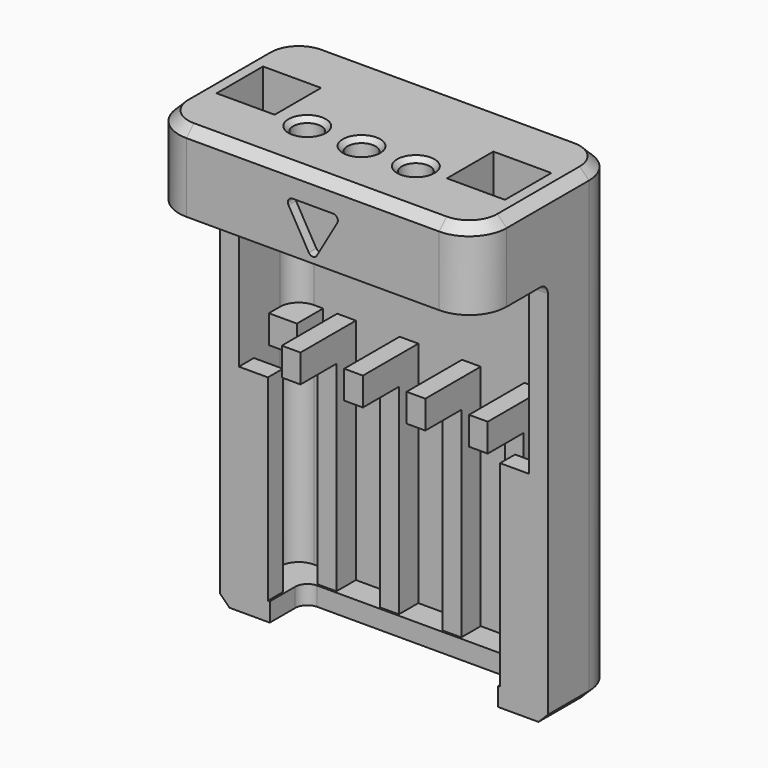
from build123d import *

# Parameters (mm, degrees)
PAD005_DEPTH           = 25
SKETCH014_W            = 3.1
SKETCH014_H            = 3.1
POCKET008_DEPTH        = 3.2
POCKET010_DEPTH        = 20.801
POCKET011_DEPTH        = 0.5
CHAMFER002_SIZE        = 0.5
SKETCH019_R            = 0.75
SKETCH019_R_2          = 1
POCKET012_DEPTH        = 25.001
CHAMFER003_SIZE        = 0.25
PAD009_DEPTH           = 1
CHAMFER_SIZE           = 0.5
PAD021_DEPTH           = 0.5
LINEARPATTERN001_COUNT = 4
LINEARPATTERN001_PITCH = 3.3333333333
SKETCH047_W            = 1.55
SKETCH047_H            = 10.5
PAD022_DEPTH           = 1
SKETCH048_W            = 1.5
SKETCH048_H            = 1.5
PAD023_DEPTH           = 4
SKETCH054_W            = 7.578003
SKETCH054_H            = 26.545825
POCKET038_DEPTH        = 8.751
POCKET038_DEPTH_BACK   = 8.751
FILLET005_R            = 0.5
SKETCH055_W            = 1.5
SKETCH055_H            = 1.5
POCKET039_DEPTH        = 2


with BuildPart() as part:
    # Sketch013 → Pad005 (new body)
    with BuildSketch(Plane.XY):
        with BuildLine():
            Line((-6.75, 4.75), (6.75, 4.75))
            ThreePointArc((8.75, 2.75), (8.1642135624, 4.1642135624), (6.75, 4.75))
            Line((8.75, 2.75), (8.75, -2.75))
            ThreePointArc((6.75, -4.75), (8.1642135624, -4.1642135624), (8.75, -2.75))
            Line((6.75, -4.75), (-6.75, -4.75))
            ThreePointArc((-8.75, -2.75), (-8.1642135624, -4.1642135624), (-6.75, -4.75))
            Line((-8.75, -2.75), (-8.75, 2.75))
            ThreePointArc((-6.75, 4.75), (-8.1642135624, 4.1642135624), (-8.75, 2.75))
        make_face()
    extrude(amount=-PAD005_DEPTH)

    # Sketch014 (on Face9 of Pad005) → Pocket008 (cut)
    with BuildSketch(Plane.XY):
        with Locations((6.15, 0)):
            Rectangle(SKETCH014_W, SKETCH014_H)
        with Locations((-6.15, 0)):
            Rectangle(SKETCH014_W, SKETCH014_H)
    extrude(amount=-POCKET008_DEPTH, mode=Mode.SUBTRACT)

    # Sketch017 → Pocket010 (cut, through all)
    with BuildSketch(Plane.XY.offset(-4.2)):
        with BuildLine():
            Line((-6.75, 3.75), (6.75, 3.75))
            ThreePointArc((7.75, 2.75), (7.4571067812, 3.4571067812), (6.75, 3.75))
            Line((7.75, 2.75), (7.75, -2.75))
            ThreePointArc((6.75, -3.75), (7.4571067812, -3.4571067812), (7.75, -2.75))
            Line((6.75, -3.75), (-6.75, -3.75))
            ThreePointArc((-7.75, -2.75), (-7.4571067812, -3.4571067812), (-6.75, -3.75))
            Line((-7.75, -2.75), (-7.75, 2.75))
            ThreePointArc((-6.75, 3.75), (-7.4571067812, 3.4571067812), (-7.75, 2.75))
        make_face()
    extrude(amount=-POCKET010_DEPTH, mode=Mode.SUBTRACT)

    # Sketch018 → Pocket011 (cut)
    with BuildSketch(Plane.XZ.offset(4.75)):
        with BuildLine():
            Line((1.0846232888, -1.5), (-1.0846232888, -1.5))
            ThreePointArc((-1.0846232888, -1.5), (-1.3011296398, -1.625), (-1.3011296398, -1.875))
            Line((-1.3011296398, -1.875), (-0.2165063509, -3.7536226433))
            ThreePointArc((-0.2165063509, -3.7536226433), (0, -3.8786226433), (0.2165063509, -3.7536226433))
            Line((0.2165063509, -3.7536226433), (1.3011296398, -1.875))
            ThreePointArc((1.3011296398, -1.875), (1.3011296398, -1.625), (1.0846232888, -1.5))
        make_face()
    extrude(amount=-POCKET011_DEPTH, mode=Mode.SUBTRACT)

    # Chamfer002
    chamfer002_edges = [part.edges().sort_by_distance(p)[0] for p in [
        (8.75, 0, 0),
    ]]
    chamfer(chamfer002_edges, length=CHAMFER002_SIZE)

    # Sketch019 (on Face8 of Chamfer002) → Pocket012 (cut, through all)
    with BuildSketch(Plane.XY):
        with Locations((0, -1.5)):
            Circle(SKETCH019_R)
        with Locations((2.9, -1.5)):
            Circle(SKETCH019_R)
        with Locations((-2.9, -1.5)):
            Circle(SKETCH019_R)
        with Locations((-6.1, 0)):
            Circle(SKETCH019_R_2)
        with Locations((6.1, 0)):
            Circle(SKETCH019_R_2)
    extrude(amount=-POCKET012_DEPTH, mode=Mode.SUBTRACT)

    # Chamfer003
    chamfer003_edges = [part.edges().sort_by_distance(p)[0] for p in [
        (-7.1, 0, -3.2),
        (5.1, 0, -3.2),
        (2.15, -1.5, 0),
        (-0.75, -1.5, 0),
        (-3.65, -1.5, 0),
    ]]
    chamfer(chamfer003_edges, length=CHAMFER003_SIZE)

    # Sketch027 → Pad009 (join)
    with BuildSketch(Plane.XY.offset(-25)):
        with BuildLine():
            Line((-6.75, 4.75), (6.75, 4.75))
            ThreePointArc((8.75, 2.75), (8.1642135624, 4.1642135624), (6.75, 4.75))
            Line((8.75, 2.75), (8.75, -2.75))
            ThreePointArc((6.75, -4.75), (8.1642135624, -4.1642135624), (8.75, -2.75))
            Line((6.75, -4.75), (-6.75, -4.75))
            ThreePointArc((-8.75, -2.75), (-8.1642135624, -4.1642135624), (-6.75, -4.75))
            Line((-8.75, -2.75), (-8.75, 2.75))
            ThreePointArc((-6.75, 4.75), (-8.1642135624, 4.1642135624), (-8.75, 2.75))
        make_face()
        with BuildLine():
            ThreePointArc((-5.45, 2.35), (-5.9096194078, 2.1596194078), (-6.1, 1.7))
            Line((-6.1, -1.7), (-6.1, 1.7))
            ThreePointArc((-6.1, -1.7), (-5.9096194078, -2.1596194078), (-5.45, -2.35))
            Line((5.45, -2.35), (-5.45, -2.35))
            ThreePointArc((5.45, -2.35), (5.9096194078, -2.1596194078), (6.1, -1.7))
            Line((6.1, 1.7), (6.1, -1.7))
            ThreePointArc((6.1, 1.7), (5.9096194078, 2.1596194078), (5.45, 2.35))
            Line((-5.45, 2.35), (5.45, 2.35))
        make_face(mode=Mode.SUBTRACT)
    extrude(amount=PAD009_DEPTH)

    # Chamfer
    chamfer_edges = [part.edges().sort_by_distance(p)[0] for p in [
        (0, -4.75, -25),
    ]]
    chamfer(chamfer_edges, length=CHAMFER_SIZE)

    # Sketch046 → Pad021 (join, symmetric)
    with BuildSketch(Plane.YZ.offset(5)):
        Polygon((3.75, -24), (3.75, -11.8), (0.05, -11.8), (0.05, -13.3), (2.45, -13.3), (2.45, -24), align=None)
    pad021 = extrude(amount=PAD021_DEPTH, both=True)

    # LinearPattern001: Pad021 ×4
    with Locations(*[(-i * LINEARPATTERN001_PITCH, 0, 0) for i in range(1, LINEARPATTERN001_COUNT)]):
        add(pad021)

    # Sketch047 → Pad022 (join, symmetric)
    with BuildSketch(Plane.XZ):
        with Locations((6.975, -18.75)):
            Rectangle(SKETCH047_W, SKETCH047_H)
    pad022 = extrude(amount=PAD022_DEPTH, both=True)

    # Mirrored008: Pad022 across Sketch047 V_Axis
    add(pad022.mirror(Plane(origin=(0, 0, 0), x_dir=(0, -1, 0), z_dir=(1, 0, 0))))

    # Sketch048 → Pad023 (join, symmetric)
    with BuildSketch(Plane.XZ):
        with Locations((7, -6.05)):
            Rectangle(SKETCH048_W, SKETCH048_H)
        with Locations((7, -12.55)):
            Rectangle(SKETCH048_W, SKETCH048_H)
    pad023 = extrude(amount=PAD023_DEPTH, both=True)

    # Mirrored009: Pad023 across Sketch048 V_Axis
    add(pad023.mirror(Plane(origin=(0, 0, 0), x_dir=(0, -1, 0), z_dir=(1, 0, 0))))

    # Sketch054 → Pocket038 (cut, two sides)
    with BuildSketch(Plane.YZ) as pocket038_sk:
        with Locations((-3.7890015, -17.4729125)):
            Rectangle(SKETCH054_W, SKETCH054_H)
    extrude(amount=-POCKET038_DEPTH, mode=Mode.SUBTRACT)
    extrude(pocket038_sk.sketch, amount=POCKET038_DEPTH_BACK, mode=Mode.SUBTRACT)

    # Fillet005
    fillet005_edges = [part.edges().sort_by_distance(p)[0] for p in [
        (-8.25, 0, -4.2),
        (8.25, 0, -4.2),
    ]]
    fillet(fillet005_edges, radius=FILLET005_R)

    # Sketch055 → Pocket039 (cut)
    with BuildSketch(Plane.XZ):
        with Locations((7, -6.05)):
            Rectangle(SKETCH055_W, SKETCH055_H)
        with Locations((7, -12.55)):
            Rectangle(SKETCH055_W, SKETCH055_H)
    pocket039 = extrude(amount=-POCKET039_DEPTH, mode=Mode.SUBTRACT)

    # Mirrored010: Pocket039 across Sketch055 V_Axis
    add(pocket039.mirror(Plane(origin=(0, 0, 0), x_dir=(0, -1, 0), z_dir=(1, 0, 0))), mode=Mode.SUBTRACT)


with BuildPart() as part_1:
    # Body012 placement: moved
    add(part.part.moved(Location((-18, 0, 0))))


solid = part_1.part
